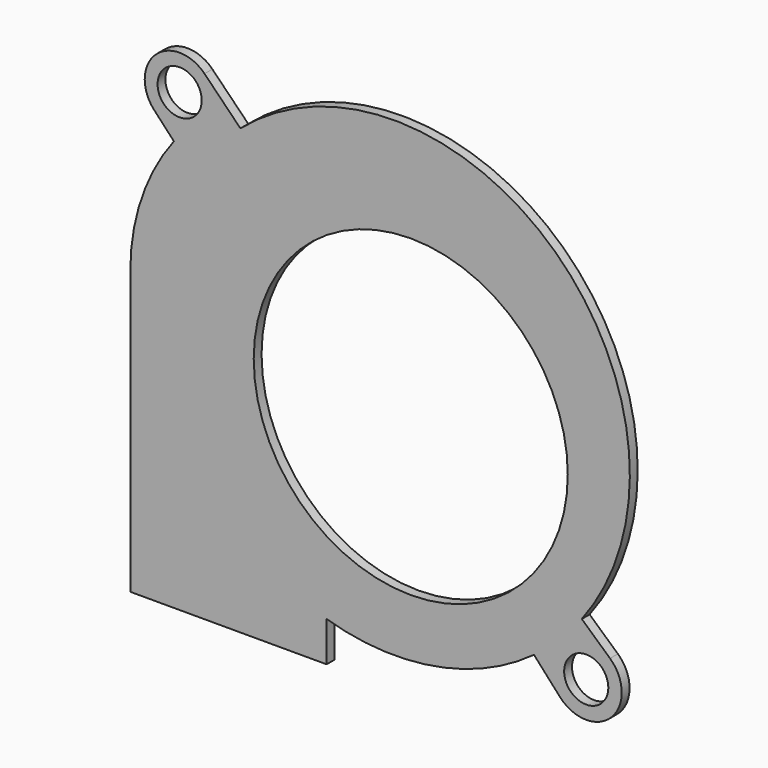
from build123d import *

# Parameters (mm, degrees)
F0_R     = 2.25
F0_R_2   = 16
F1_DEPTH = 1


with BuildPart() as f1:
    # F0 (on Front) → F1 (new body)
    with BuildSketch(Plane.XZ):
        with BuildLine():
            Line((4.209625, -2.647812), (4.209625, 1.420013))
            ThreePointArc((4.209625, 1.420013), (15.207091, 0.758549), (25.341338, 5.080448))
            Line((25.341338, 5.080448), (27.98607, 2.162959))
            ThreePointArc((27.98607, 2.162959), (33.227056, 2.037489), (33.08977, 7.27818))
            Line((33.08977, 7.27818), (30.211789, 9.875299))
            ThreePointArc((30.211789, 9.875299), (27.548758, 41.893357), (-4.572665, 42.57308))
            Line((-4.572665, 42.57308), (-8.227887, 46.289463))
            ThreePointArc((-8.227887, 46.289463), (-13.224062, 46.363974), (-13.364673, 41.369222))
            Line((-13.364673, 41.369222), (-11.350405, 39.209819))
            ThreePointArc((-11.350405, 39.209819), (-14.650167, 33.0315), (-15.790375, 26.12064))
            Line((-15.790375, 26.12064), (-15.790375, -2.647812))
            Line((-15.790375, -2.647812), (4.209625, -2.647812))
        make_face()
        with Locations((30.666229, 4.592549)):
            Circle(F0_R, mode=Mode.SUBTRACT)
        with Locations((12.784705, 22.352362)):
            Circle(F0_R_2, mode=Mode.SUBTRACT)
        with Locations((-10.763726, 43.795356)):
            Circle(F0_R, mode=Mode.SUBTRACT)
    extrude(amount=F1_DEPTH)


solid = f1.part
